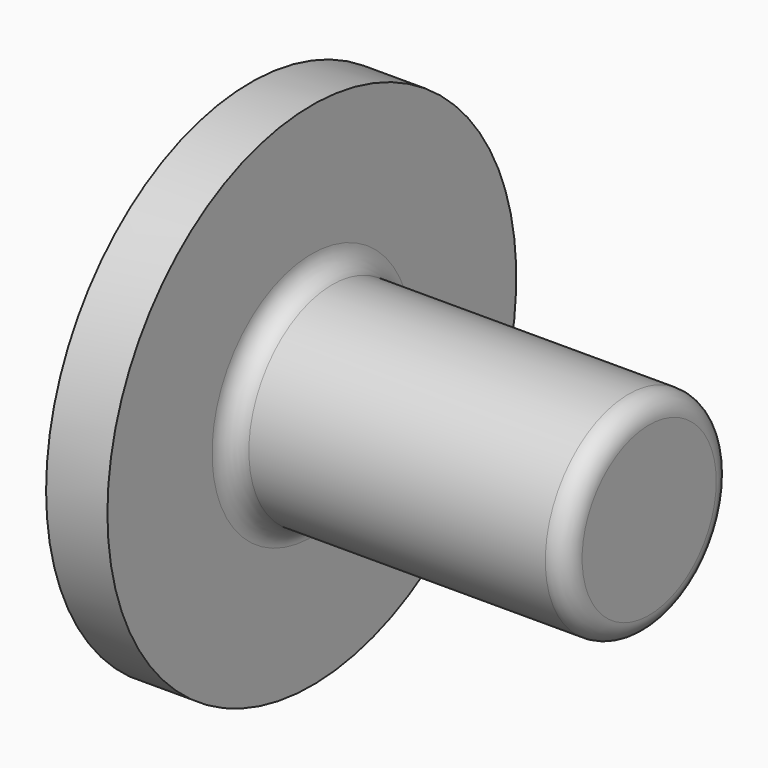
from build123d import *

# Parameters (mm, degrees)
F0_R     = 5.1
F0_R_2   = 4.5
F1_DEPTH = 15
F2_R     = 5.1
F3_DEPTH = 1.5
F4_R     = 12.5
F4_R_2   = 4.5
F5_DEPTH = 3
F6_R     = 1
F7_SIZE  = 2


with BuildPart() as f1:
    # F0 (on Right) → F1 (new body)
    with BuildSketch(Plane.YZ):
        Circle(F0_R)
        Circle(F0_R_2, mode=Mode.SUBTRACT)
    extrude(amount=F1_DEPTH)

    # F2 (on face) → F3 (join)
    with BuildSketch(Plane.YZ.offset(15)):
        Circle(F2_R)
    extrude(amount=F3_DEPTH)

    # F4 (on face) → F5 (join)
    with BuildSketch(Plane(origin=(0, 0, 0), x_dir=(0, -1, 0), z_dir=(-1, 0, 0))):
        Circle(F4_R)
        Circle(F4_R_2, mode=Mode.SUBTRACT)
    extrude(amount=F5_DEPTH)

    # F6
    f6_edges = [f1.edges().sort_by_distance(p)[0] for p in [
        (16.5, -5.1, 0),
        (0, -5.1, 0),
    ]]
    fillet(f6_edges, radius=F6_R)

    # F7
    f7_edges = [f1.edges().sort_by_distance(p)[0] for p in [
        (-3, 4.5, 0),
    ]]
    chamfer(f7_edges, length=F7_SIZE)


solid = f1.part
